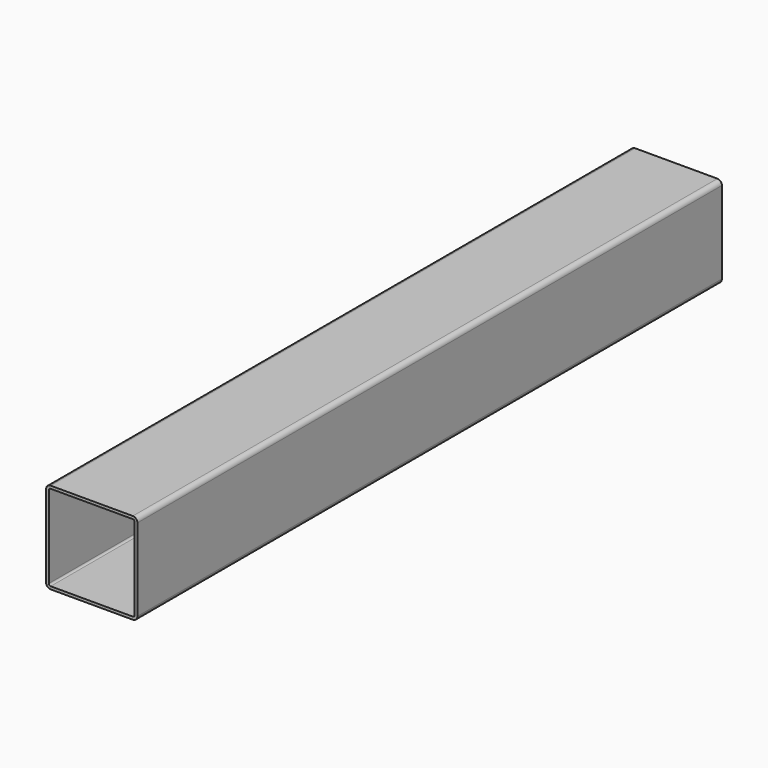
from build123d import *

# Parameters (mm, degrees)
F1_DEPTH = 800


with BuildPart() as f1:
    # F0 (on Front) → F1 (new body)
    with BuildSketch(Plane.XZ):
        with BuildLine():
            ThreePointArc((50, 45), (48.535534, 48.535534), (45, 50))
            Line((45, 50), (-45, 50))
            ThreePointArc((-45, 50), (-48.535534, 48.535534), (-50, 45))
            Line((-50, 45), (-50, -45))
            ThreePointArc((-50, -45), (-48.535534, -48.535534), (-45, -50))
            Line((-45, -50), (45, -50))
            ThreePointArc((45, -50), (48.535534, -48.535534), (50, -45))
            Line((50, -45), (50, 45))
        make_face()
        with BuildLine():
            ThreePointArc((-47, 45), (-46.414214, 46.414214), (-45, 47))
            Line((-45, 47), (45, 47))
            ThreePointArc((45, 47), (46.414214, 46.414214), (47, 45))
            Line((47, 45), (47, -45))
            ThreePointArc((47, -45), (46.414214, -46.414214), (45, -47))
            Line((45, -47), (-45, -47))
            ThreePointArc((-45, -47), (-46.414214, -46.414214), (-47, -45))
            Line((-47, -45), (-47, 45))
        make_face(mode=Mode.SUBTRACT)
    extrude(amount=-F1_DEPTH)


solid = f1.part
